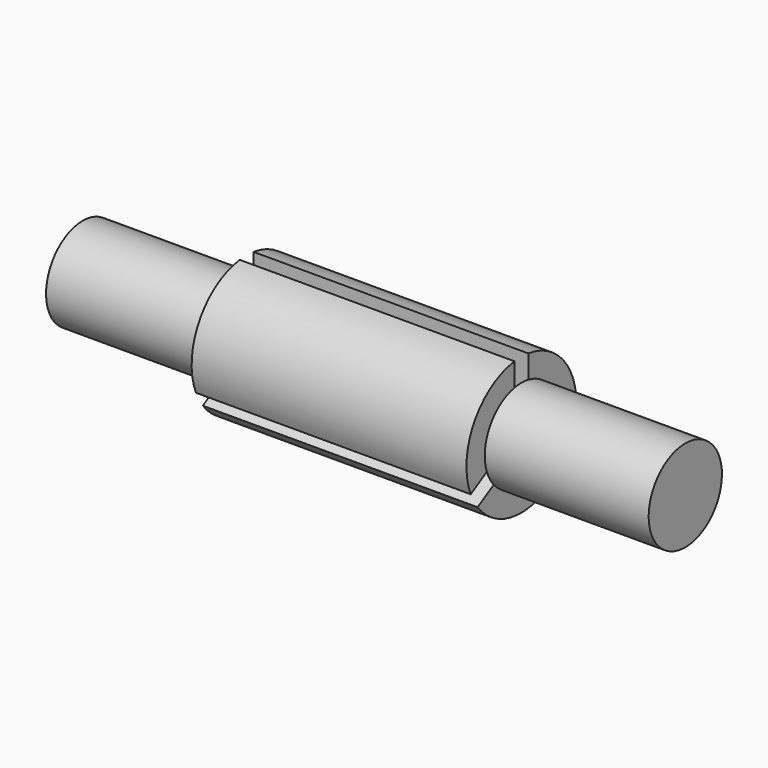
from build123d import *

# Parameters (mm, degrees)
F3_W     = 9.525
F3_H     = 25.1206
F4_DEPTH = 152.4


with BuildPart() as f1:
    # F0 (on Front) → F1 (revolve)
    with BuildSketch(Plane.XZ):
        Polygon((0, 0), (69.85, 0), (69.85, 25.4), (-21.05, 25.4), (-21.05, 38.1), (-97.25, 38.1), (-97.25, 0), align=None)
        Polygon((-264.35, 0), (-97.25, 0), (-97.25, 38.1), (-173.45, 38.1), (-173.45, 25.4), (-264.35, 25.4), align=None)
    revolve(axis=Axis((-97.25, 0, 0), (-1, 0, 0)))

    # F3 (on face) → F4 (cut, through all)
    with BuildSketch(Plane.YZ.offset(-21.05)):
        with Locations((0, 25.5397)):
            Rectangle(F3_W, F3_H)
        Polygon((-30.614318, -23.174446), (-8.85924, -10.614146), (-13.62174, -2.365254), (-35.376818, -14.925554), align=None)
        Polygon((35.376818, -14.925554), (13.62174, -2.365254), (8.85924, -10.614146), (30.614318, -23.174446), align=None)
    extrude(amount=-F4_DEPTH, mode=Mode.SUBTRACT)


solid = f1.part
